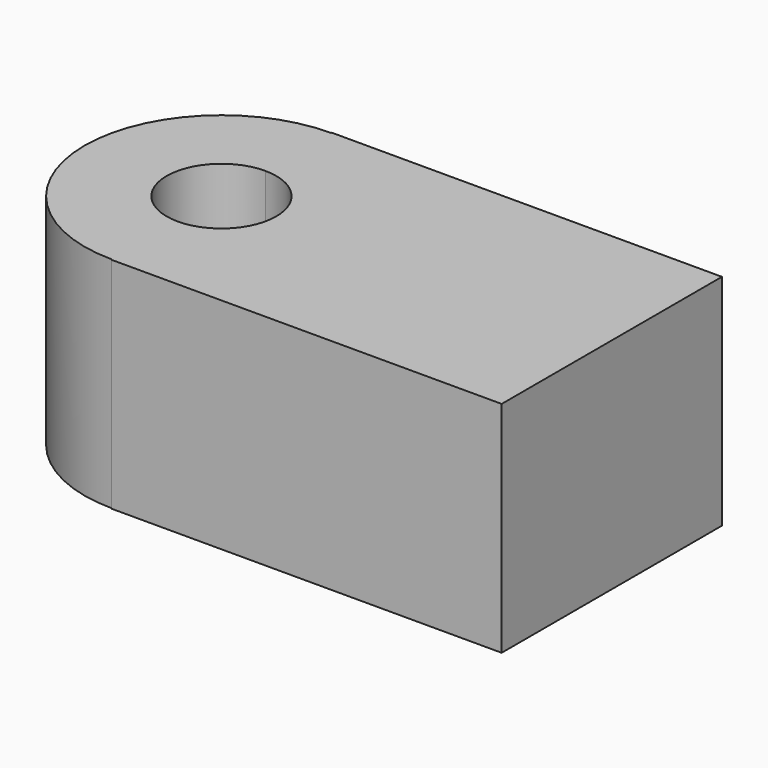
from build123d import *

# Parameters (mm, degrees)
F1_DEPTH = 20


with BuildPart() as f1:
    # F0 (on Top) → F1 (new body)
    with BuildSketch(Plane.XY):
        with BuildLine():
            Line((-12.4044854931, 4.3749214336), (-12.4044854931, 11.8749214336))
            ThreePointArc((-12.4044854931, 11.8749214336), (-24.9044854931, -0.6250785664), (-12.4044854931, -13.1250785664))
            Line((-12.4044854931, -13.1250785664), (-12.4044854931, -5.6250785664))
            ThreePointArc((-12.4044854931, -5.6250785664), (-17.4044854931, -0.6250785664), (-12.4044854931, 4.3749214336))
        make_face()
        with BuildLine():
            ThreePointArc((0.0955145069, -0.6250785664), (-3.5656507283, 8.2137561985), (-12.4044854931, 11.8749214336))
            Line((-12.4044854931, 11.8749214336), (-12.4044854931, 4.3749214336))
            ThreePointArc((-12.4044854931, 4.3749214336), (-8.8689515872, 2.9104553396), (-7.4044854931, -0.6250785664))
            ThreePointArc((-7.4044854931, -0.6250785664), (-8.8689515872, -4.1606124723), (-12.4044854931, -5.6250785664))
            Line((-12.4044854931, -5.6250785664), (-12.4044854931, -13.1250785664))
            ThreePointArc((-12.4044854931, -13.1250785664), (-3.5656507283, -9.4639133312), (0.0955145069, -0.6250785664))
        make_face()
        with BuildLine():
            Line((23.2241750516, 11.9398952645), (-12.4044854931, 11.9398952645))
            Line((-12.4044854931, 11.9398952645), (-12.4044854931, 11.8749214336))
            ThreePointArc((-12.4044854931, 11.8749214336), (-3.5656507283, 8.2137561985), (0.0955145069, -0.6250785664))
            ThreePointArc((0.0955145069, -0.6250785664), (-3.5656507283, -9.4639133312), (-12.4044854931, -13.1250785664))
            Line((-12.4044854931, -13.1250785664), (-12.4044854931, -13.1900523973))
            Line((-12.4044854931, -13.1900523973), (23.2241750516, -13.1900523973))
            Line((23.2241750516, -13.1900523973), (23.2241750516, 11.9398952645))
        make_face()
    extrude(amount=F1_DEPTH)


solid = f1.part
